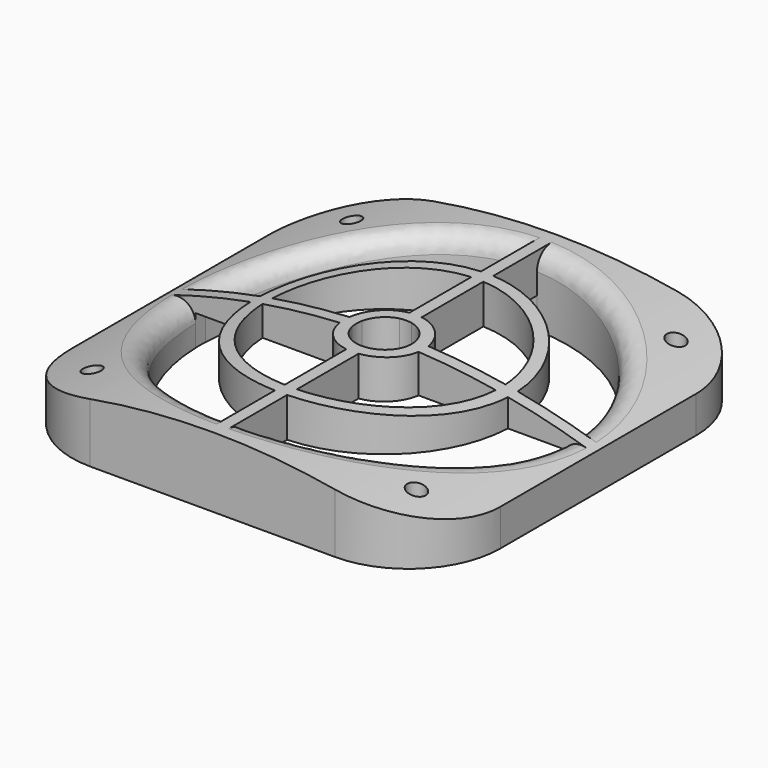
from build123d import *

# Parameters (mm, degrees)
F0_W     = 70
F0_H     = 70
F0_R     = 1.5
F1_DEPTH = 25
F3_DEPTH = 76
F4_R     = 15
F5_R     = 3
F6_R     = 30
F7_DEPTH = 5


with BuildPart() as f1:
    # F0 (on Top) → F1 (new body)
    with BuildSketch(Plane.XY):
        Rectangle(F0_W, F0_H)
        with Locations((-26.5, -26.5)):
            Circle(F0_R, mode=Mode.SUBTRACT)
        with Locations((26.5, -26.5)):
            Circle(F0_R, mode=Mode.SUBTRACT)
        with Locations((-26.5, 26.5)):
            Circle(F0_R, mode=Mode.SUBTRACT)
        with BuildLine():
            ThreePointArc((29.9833287011, 1), (29.9958318857, 0.5000694782), (30, 0))
            ThreePointArc((30, 0), (29.9958318857, -0.5000694782), (29.9833287011, -1))
            ThreePointArc((29.9833287011, -1), (21.2132034356, -21.2132034356), (1, -29.9833287011))
            ThreePointArc((1, -29.9833287011), (0, -30), (-1, -29.9833287011))
            ThreePointArc((-1, -29.9833287011), (-21.2132034356, -21.2132034356), (-29.9833287011, -1))
            ThreePointArc((-29.9833287011, -1), (-30, 0), (-29.9833287011, 1))
            ThreePointArc((-29.9833287011, 1), (-21.2132034356, 21.2132034356), (-1, 29.9833287011))
            ThreePointArc((-1, 29.9833287011), (0, 30), (1, 29.9833287011))
            ThreePointArc((1, 29.9833287011), (21.2132034356, 21.2132034356), (29.9833287011, 1))
        make_face(mode=Mode.SUBTRACT)
        with Locations((26.5, 26.5)):
            Circle(F0_R, mode=Mode.SUBTRACT)
        with BuildLine():
            Line((-1, 19.0419760338), (-1, 21.0444699198))
            ThreePointArc((-1, 21.0444699198), (-14.8974782129, 14.8974782129), (-21.0444699198, 1))
            Line((-21.0444699198, 1), (-19.0419760338, 1))
            ThreePointArc((-19.0419760338, 1), (-13.4832646505, 13.4832646505), (-1, 19.0419760338))
        make_face()
        with BuildLine():
            Line((-21.0444699198, 1), (-29.9833287011, 1))
            ThreePointArc((-29.9833287011, 1), (-30, 0), (-29.9833287011, -1))
            Line((-29.9833287011, -1), (-21.0444699198, -1))
            ThreePointArc((-21.0444699198, -1), (-21.0682157338, 0), (-21.0444699198, 1))
        make_face()
        with BuildLine():
            ThreePointArc((-21.0444699198, -1), (-14.8974782129, -14.8974782129), (-1, -21.0444699198))
            Line((-1, -21.0444699198), (-1, -19.0419760338))
            ThreePointArc((-1, -19.0419760338), (-13.4832646505, -13.4832646505), (-19.0419760338, -1))
            Line((-19.0419760338, -1), (-21.0444699198, -1))
        make_face()
        with BuildLine():
            Line((-6.4422584899, 1), (-19.0419760338, 1))
            ThreePointArc((-19.0419760338, 1), (-19.0682157338, 0), (-19.0419760338, -1))
            Line((-19.0419760338, -1), (-6.4422584899, -1))
            ThreePointArc((-6.4422584899, -1), (-6.5194090568, 0), (-6.4422584899, 1))
        make_face()
        with BuildLine():
            Line((-19.0419760338, 1), (-21.0444699198, 1))
            ThreePointArc((-21.0444699198, 1), (-21.0682157338, 0), (-21.0444699198, -1))
            Line((-21.0444699198, -1), (-19.0419760338, -1))
            ThreePointArc((-19.0419760338, -1), (-19.0682157338, 0), (-19.0419760338, 1))
        make_face()
        with BuildLine():
            ThreePointArc((-6.4422584899, -1), (-4.6099183534, -4.6099183534), (-1, -6.4422584899))
            Line((-1, -6.4422584899), (-1, -4.4073867794))
            ThreePointArc((-1, -4.4073867794), (-3.195704791, -3.195704791), (-4.4073867794, -1))
            Line((-4.4073867794, -1), (-6.4422584899, -1))
        make_face()
        with BuildLine():
            Line((-4.4073867794, 1), (-6.4422584899, 1))
            ThreePointArc((-6.4422584899, 1), (-6.5194090568, 0), (-6.4422584899, -1))
            Line((-6.4422584899, -1), (-4.4073867794, -1))
            ThreePointArc((-4.4073867794, -1), (-4.5194090568, 0), (-4.4073867794, 1))
        make_face()
        with BuildLine():
            Line((-1, 4.4073867794), (-1, 6.4422584899))
            ThreePointArc((-1, 6.4422584899), (-4.6099183534, 4.6099183534), (-6.4422584899, 1))
            Line((-6.4422584899, 1), (-4.4073867794, 1))
            ThreePointArc((-4.4073867794, 1), (-3.195704791, 3.195704791), (-1, 4.4073867794))
        make_face()
        with BuildLine():
            Line((1, 4.4073867794), (1, 6.4422584899))
            ThreePointArc((1, 6.4422584899), (0, 6.5194090568), (-1, 6.4422584899))
            Line((-1, 6.4422584899), (-1, 4.4073867794))
            ThreePointArc((-1, 4.4073867794), (0, 4.5194090568), (1, 4.4073867794))
        make_face()
        with BuildLine():
            Line((4.4073867794, 1), (6.4422584899, 1))
            ThreePointArc((6.4422584899, 1), (4.6099183534, 4.6099183534), (1, 6.4422584899))
            Line((1, 6.4422584899), (1, 4.4073867794))
            ThreePointArc((1, 4.4073867794), (3.195704791, 3.195704791), (4.4073867794, 1))
        make_face()
        with BuildLine():
            ThreePointArc((6.5194090568, 0), (6.5000927992, 0.5014858448), (6.4422584899, 1))
            Line((6.4422584899, 1), (4.4073867794, 1))
            ThreePointArc((4.4073867794, 1), (4.491316174, 0.5031274666), (4.5194090568, 0))
            ThreePointArc((4.5194090568, 0), (4.491316174, -0.5031274666), (4.4073867794, -1))
            Line((4.4073867794, -1), (6.4422584899, -1))
            ThreePointArc((6.4422584899, -1), (6.5000927992, -0.5014858448), (6.5194090568, 0))
        make_face()
        with BuildLine():
            ThreePointArc((1, -6.4422584899), (4.6099183534, -4.6099183534), (6.4422584899, -1))
            Line((6.4422584899, -1), (4.4073867794, -1))
            ThreePointArc((4.4073867794, -1), (3.195704791, -3.195704791), (1, -4.4073867794))
            Line((1, -4.4073867794), (1, -6.4422584899))
        make_face()
        with BuildLine():
            ThreePointArc((-1, -21.0444699198), (0, -21.0682157338), (1, -21.0444699198))
            Line((1, -21.0444699198), (1, -19.0419760338))
            ThreePointArc((1, -19.0419760338), (0, -19.0682157338), (-1, -19.0419760338))
            Line((-1, -19.0419760338), (-1, -21.0444699198))
        make_face()
        with BuildLine():
            ThreePointArc((-1, -29.9833287011), (0, -30), (1, -29.9833287011))
            Line((1, -29.9833287011), (1, -21.0444699198))
            ThreePointArc((1, -21.0444699198), (0, -21.0682157338), (-1, -21.0444699198))
            Line((-1, -21.0444699198), (-1, -29.9833287011))
        make_face()
        with BuildLine():
            ThreePointArc((-1, -19.0419760338), (0, -19.0682157338), (1, -19.0419760338))
            Line((1, -19.0419760338), (1, -6.4422584899))
            ThreePointArc((1, -6.4422584899), (0, -6.5194090568), (-1, -6.4422584899))
            Line((-1, -6.4422584899), (-1, -19.0419760338))
        make_face()
        with BuildLine():
            ThreePointArc((1, -21.0444699198), (14.8974782129, -14.8974782129), (21.0444699198, -1))
            Line((21.0444699198, -1), (19.0419760338, -1))
            ThreePointArc((19.0419760338, -1), (13.4832646505, -13.4832646505), (1, -19.0419760338))
            Line((1, -19.0419760338), (1, -21.0444699198))
        make_face()
        with BuildLine():
            ThreePointArc((21.0682157338, 0), (21.0622784437, 0.5001409461), (21.0444699198, 1))
            Line((21.0444699198, 1), (19.0419760338, 1))
            ThreePointArc((19.0419760338, 1), (19.06165468, 0.5001721008), (19.0682157338, 0))
            ThreePointArc((19.0682157338, 0), (19.06165468, -0.5001721008), (19.0419760338, -1))
            Line((19.0419760338, -1), (21.0444699198, -1))
            ThreePointArc((21.0444699198, -1), (21.0622784437, -0.5001409461), (21.0682157338, 0))
        make_face()
        with BuildLine():
            ThreePointArc((19.0682157338, 0), (19.06165468, 0.5001721008), (19.0419760338, 1))
            Line((19.0419760338, 1), (6.4422584899, 1))
            ThreePointArc((6.4422584899, 1), (6.5000927992, 0.5014858448), (6.5194090568, 0))
            ThreePointArc((6.5194090568, 0), (6.5000927992, -0.5014858448), (6.4422584899, -1))
            Line((6.4422584899, -1), (19.0419760338, -1))
            ThreePointArc((19.0419760338, -1), (19.06165468, -0.5001721008), (19.0682157338, 0))
        make_face()
        with BuildLine():
            Line((19.0419760338, 1), (21.0444699198, 1))
            ThreePointArc((21.0444699198, 1), (14.8974782129, 14.8974782129), (1, 21.0444699198))
            Line((1, 21.0444699198), (1, 19.0419760338))
            ThreePointArc((1, 19.0419760338), (13.4832646505, 13.4832646505), (19.0419760338, 1))
        make_face()
        with BuildLine():
            Line((1, 19.0419760338), (1, 21.0444699198))
            ThreePointArc((1, 21.0444699198), (0, 21.0682157338), (-1, 21.0444699198))
            Line((-1, 21.0444699198), (-1, 19.0419760338))
            ThreePointArc((-1, 19.0419760338), (0, 19.0682157338), (1, 19.0419760338))
        make_face()
        with BuildLine():
            Line((1, 21.0444699198), (1, 29.9833287011))
            ThreePointArc((1, 29.9833287011), (0, 30), (-1, 29.9833287011))
            Line((-1, 29.9833287011), (-1, 21.0444699198))
            ThreePointArc((-1, 21.0444699198), (0, 21.0682157338), (1, 21.0444699198))
        make_face()
        with BuildLine():
            Line((1, 6.4422584899), (1, 19.0419760338))
            ThreePointArc((1, 19.0419760338), (0, 19.0682157338), (-1, 19.0419760338))
            Line((-1, 19.0419760338), (-1, 6.4422584899))
            ThreePointArc((-1, 6.4422584899), (0, 6.5194090568), (1, 6.4422584899))
        make_face()
        with BuildLine():
            ThreePointArc((-1, -6.4422584899), (0, -6.5194090568), (1, -6.4422584899))
            Line((1, -6.4422584899), (1, -4.4073867794))
            ThreePointArc((1, -4.4073867794), (0, -4.5194090568), (-1, -4.4073867794))
            Line((-1, -4.4073867794), (-1, -6.4422584899))
        make_face()
        with BuildLine():
            ThreePointArc((29.9833287011, -1), (29.9958318857, -0.5000694782), (30, 0))
            ThreePointArc((30, 0), (29.9958318857, 0.5000694782), (29.9833287011, 1))
            Line((29.9833287011, 1), (21.0444699198, 1))
            ThreePointArc((21.0444699198, 1), (21.0622784437, 0.5001409461), (21.0682157338, 0))
            ThreePointArc((21.0682157338, 0), (21.0622784437, -0.5001409461), (21.0444699198, -1))
            Line((21.0444699198, -1), (29.9833287011, -1))
        make_face()
    extrude(amount=F1_DEPTH)

    # F2 (on face) → F3 (cut)
    with BuildSketch(Plane.XZ.offset(35)):
        with BuildLine():
            ThreePointArc((-35, 6), (0, 11.455488499), (35, 6))
            Line((35, 6), (35, 25))
            Line((35, 25), (-35, 25))
            Line((-35, 25), (-35, 6))
        make_face()
    extrude(amount=-F3_DEPTH, mode=Mode.SUBTRACT)

    # F4
    f4_edges = [f1.edges().sort_by_distance(p)[0] for p in [
        (35, 35, 3),
        (35, -35, 3),
        (-35, 35, 3),
        (-35, -35, 3),
    ]]
    fillet(f4_edges, radius=F4_R)

    # F5
    f5_edges = [f1.edges().sort_by_distance(p)[0] for p in [
        (21.214285, 21.212122, 9.481831),
        (-21.214285, 21.212122, 9.481831),
        (-21.214285, -21.212122, 9.481831),
        (21.214285, -21.212122, 9.481831),
    ]]
    fillet(f5_edges, radius=F5_R)

    # F6 (on face) → F7 (cut)
    with BuildSketch(Plane(origin=(0, 0, 0), x_dir=(1, 0, 0), z_dir=(0, 0, -1))):
        Circle(F6_R)
    extrude(amount=-F7_DEPTH, mode=Mode.SUBTRACT)


solid = f1.part
